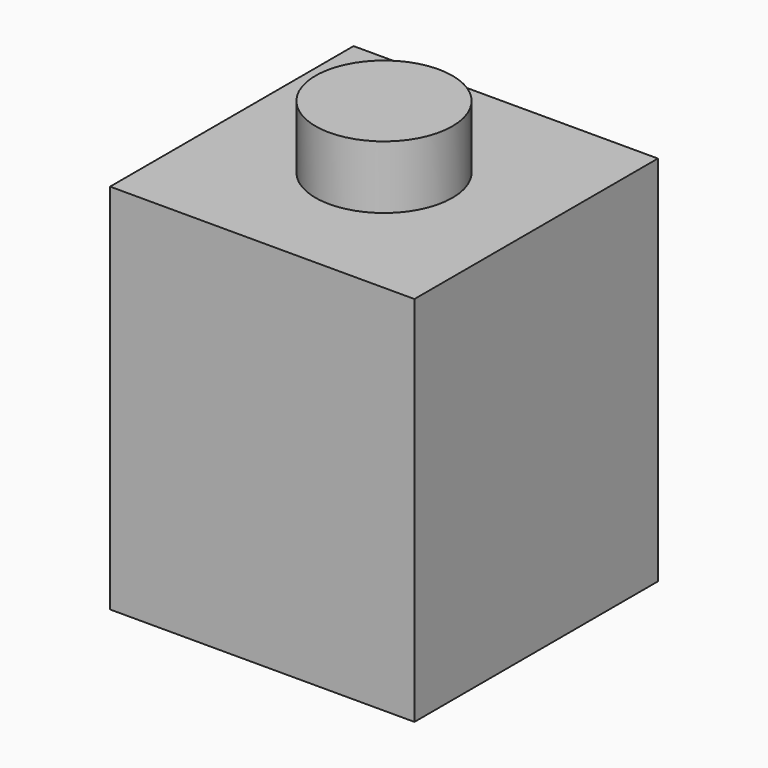
from build123d import *

# Parameters (mm, degrees)
F0_W     = 7.8486
F0_H     = 7.8486
F1_DEPTH = 9.6012
F2_R     = 1.7653
F3_DEPTH = 1.6256
F4_W     = 4.8514
F4_H     = 4.8514
F5_DEPTH = 8.3312


with BuildPart() as f1:
    # F0 (on Top) → F1 (new body)
    with BuildSketch(Plane.XY):
        Rectangle(F0_W, F0_H)
    extrude(amount=F1_DEPTH)

    # F2 (on face) → F3 (join)
    with BuildSketch(Plane.XY.offset(9.6012)):
        Circle(F2_R)
    extrude(amount=F3_DEPTH)

    # F4 (on face) → F5 (cut)
    with BuildSketch(Plane(origin=(0, 0, 0), x_dir=(1, 0, 0), z_dir=(0, 0, -1))):
        Rectangle(F4_W, F4_H)
    extrude(amount=-F5_DEPTH, mode=Mode.SUBTRACT)


solid = f1.part
